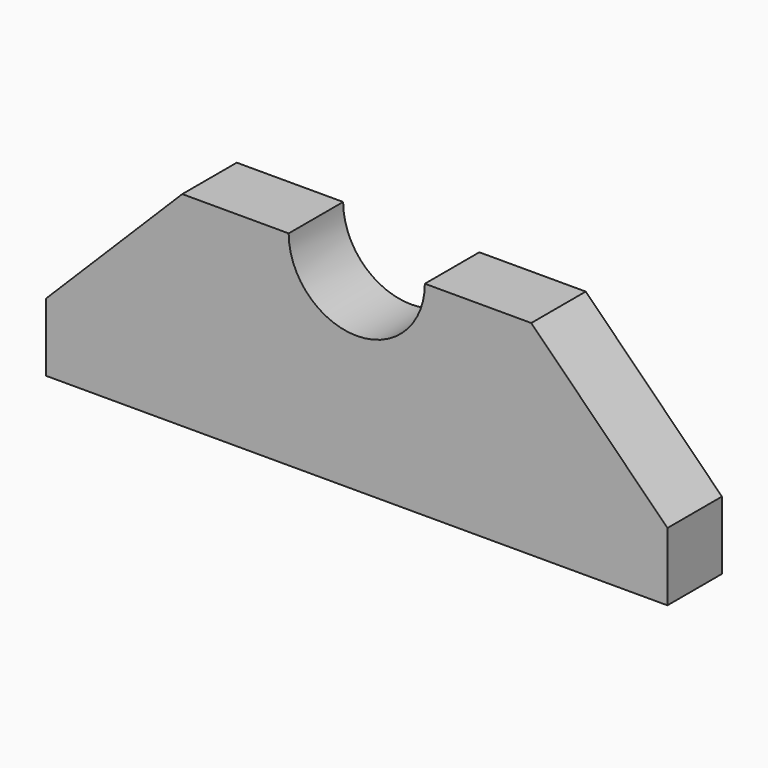
from build123d import *

# Parameters (mm, degrees)
F0_W     = 231.775
F0_H     = 25.4
F1_DEPTH = 76.2
F2_SIZE  = 50.8
F4_DEPTH = 25.4


with BuildPart() as f1:
    # F0 (on Top) → F1 (new body)
    with BuildSketch(Plane.XY):
        with Locations((-99.620111, 22.224578)):
            Rectangle(F0_W, F0_H)
    extrude(amount=F1_DEPTH)

    # F2
    f2_edges = [f1.edges().sort_by_distance(p)[0] for p in [
        (-215.507611, 22.224578, 76.2),
        (16.267389, 22.224578, 76.2),
    ]]
    chamfer(f2_edges, length=F2_SIZE)

    # F3 (on face) → F4 (cut)
    with BuildSketch(Plane.XZ.offset(-9.524578)):
        with BuildLine():
            Line((-125.020111, 76.2), (-74.220111, 76.2))
            ThreePointArc((-74.220111, 76.2), (-99.620111, 101.6), (-125.020111, 76.2))
        make_face()
        with BuildLine():
            ThreePointArc((-125.020111, 76.2), (-99.620111, 50.8), (-74.220111, 76.2))
            Line((-74.220111, 76.2), (-125.020111, 76.2))
        make_face()
    extrude(amount=-F4_DEPTH, mode=Mode.SUBTRACT)


solid = f1.part
